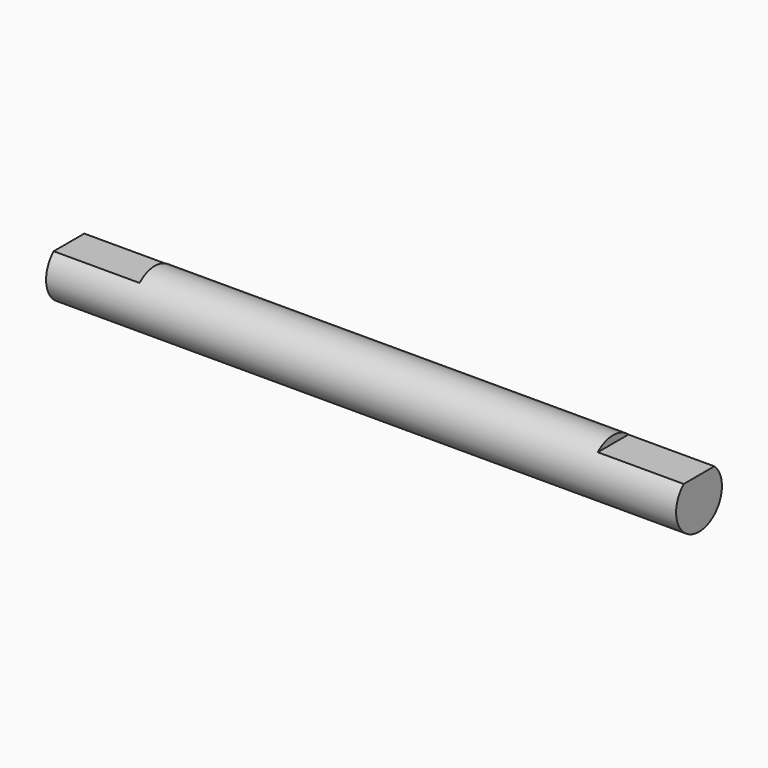
from build123d import *

# Parameters (mm, degrees)
F0_R     = 3.175
F1_DEPTH = 69.85
F2_W     = 9.525
F2_H     = 0.8128
F3_DEPTH = 12.7


with BuildPart() as f1:
    # F0 (on Right) → F1 (new body)
    with BuildSketch(Plane.YZ):
        Circle(F0_R)
    extrude(amount=F1_DEPTH)

    # F2 (on Front) → F3 (cut, symmetric)
    with BuildSketch(Plane.XZ):
        with Locations((65.0875, 2.7686)):
            Rectangle(F2_W, F2_H)
        with Locations((4.7625, 2.7686)):
            Rectangle(F2_W, F2_H)
    extrude(amount=F3_DEPTH, both=True, mode=Mode.SUBTRACT)


solid = f1.part
